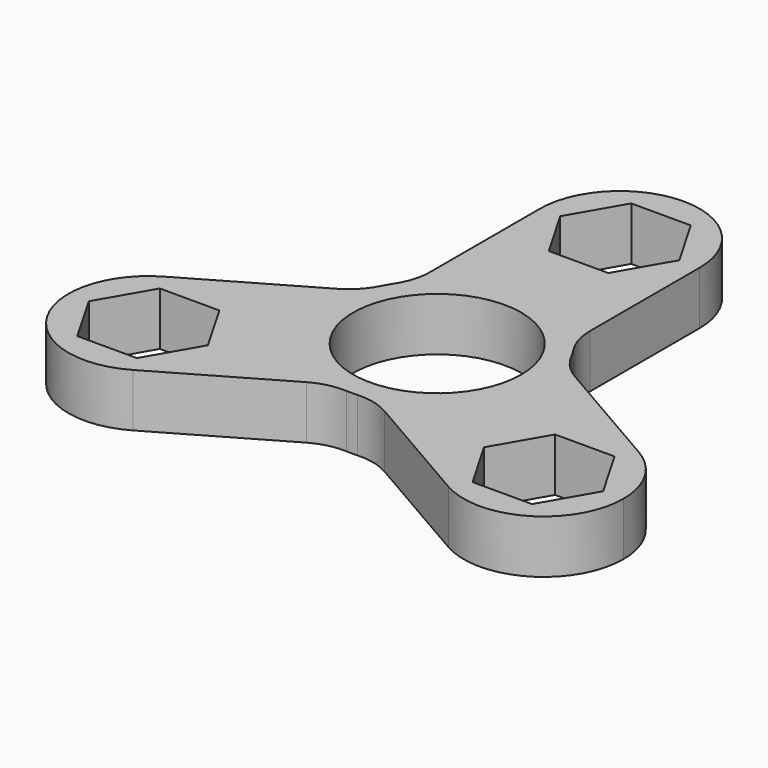
from build123d import *

# Parameters (mm, degrees)
F0_R     = 11.05
F1_DEPTH = 7
F2_R     = 8


with BuildPart() as f1:
    # F0 (on Top) → F1 (new body)
    with BuildSketch(Plane.XY):
        with BuildLine():
            ThreePointArc((-10.5, 30), (0, 19.5), (10.5, 30))
            ThreePointArc((10.5, 30), (0, 40.5), (-10.5, 30))
        make_face()
        Polygon((7.82887, 30), (3.914435, 23.22), (-3.914435, 23.22), (-7.82887, 30), (-3.914435, 36.78), (3.914435, 36.78), align=None, mode=Mode.SUBTRACT)
        with BuildLine():
            ThreePointArc((-10.5, 9.33555), (0, 14.05), (10.5, 9.33555))
            Line((10.5, 9.33555), (10.5, 30))
            ThreePointArc((10.5, 30), (0, 19.5), (-10.5, 30))
            Line((-10.5, 30), (-10.5, 9.33555))
        make_face()
        with BuildLine():
            ThreePointArc((2.834824, -13.761042), (10.891092, -8.876182), (14.05, 0))
            ThreePointArc((14.05, 0), (13.870054, 2.241453), (13.334824, 4.425492))
            ThreePointArc((13.334824, 4.425492), (12.167657, 7.025), (10.5, 9.33555))
            ThreePointArc((10.5, 9.33555), (0, 14.05), (-10.5, 9.33555))
            ThreePointArc((-10.5, 9.33555), (-12.167657, 7.025), (-13.334824, 4.425492))
            ThreePointArc((-13.334824, 4.425492), (-12.167657, -7.025), (-2.834824, -13.761042))
            ThreePointArc((-2.834824, -13.761042), (0, -14.05), (2.834824, -13.761042))
        make_face()
        Circle(F0_R, mode=Mode.SUBTRACT)
        with BuildLine():
            Line((-20.730762, -24.093267), (-2.834824, -13.761042))
            ThreePointArc((-2.834824, -13.761042), (-12.167657, -7.025), (-13.334824, 4.425492))
            Line((-13.334824, 4.425492), (-31.230762, -5.906733))
            ThreePointArc((-31.230762, -5.906733), (-20.730762, -5.906733), (-15.480762, -15))
            ThreePointArc((-15.480762, -15), (-16.887495, -20.25), (-20.730762, -24.093267))
        make_face()
        with BuildLine():
            ThreePointArc((-31.230762, -5.906733), (-35.074029, -20.25), (-20.730762, -24.093267))
            ThreePointArc((-20.730762, -24.093267), (-16.887495, -20.25), (-15.480762, -15))
            ThreePointArc((-15.480762, -15), (-20.730762, -5.906733), (-31.230762, -5.906733))
        make_face()
        Polygon((-29.895197, -8.22), (-22.066327, -8.22), (-18.151892, -15), (-22.066327, -21.78), (-29.895197, -21.78), (-33.809632, -15), align=None, mode=Mode.SUBTRACT)
        with BuildLine():
            ThreePointArc((13.334824, 4.425492), (13.870054, 2.241453), (14.05, 0))
            ThreePointArc((14.05, 0), (10.891092, -8.876182), (2.834824, -13.761042))
            Line((2.834824, -13.761042), (20.730762, -24.093267))
            ThreePointArc((20.730762, -24.093267), (16.887495, -9.75), (31.230762, -5.906733))
            Line((31.230762, -5.906733), (13.334824, 4.425492))
        make_face()
        with BuildLine():
            ThreePointArc((36.480762, -15), (35.074029, -9.75), (31.230762, -5.906733))
            ThreePointArc((31.230762, -5.906733), (16.887495, -9.75), (20.730762, -24.093267))
            ThreePointArc((20.730762, -24.093267), (31.230762, -24.093267), (36.480762, -15))
        make_face()
        Polygon((22.066327, -21.78), (18.151892, -15), (22.066327, -8.22), (29.895197, -8.22), (33.809632, -15), (29.895197, -21.78), align=None, mode=Mode.SUBTRACT)
    extrude(amount=F1_DEPTH)

    # F2
    f2_edges = [f1.edges().sort_by_distance(p)[0] for p in [
        (-10.5, 9.33555, 3.5),
        (-13.334824, 4.425492, 3.5),
        (10.5, 9.33555, 3.5),
        (13.334824, 4.425492, 3.5),
        (-2.834824, -13.761042, 3.5),
        (2.834824, -13.761042, 3.5),
    ]]
    fillet(f2_edges, radius=F2_R)


solid = f1.part
